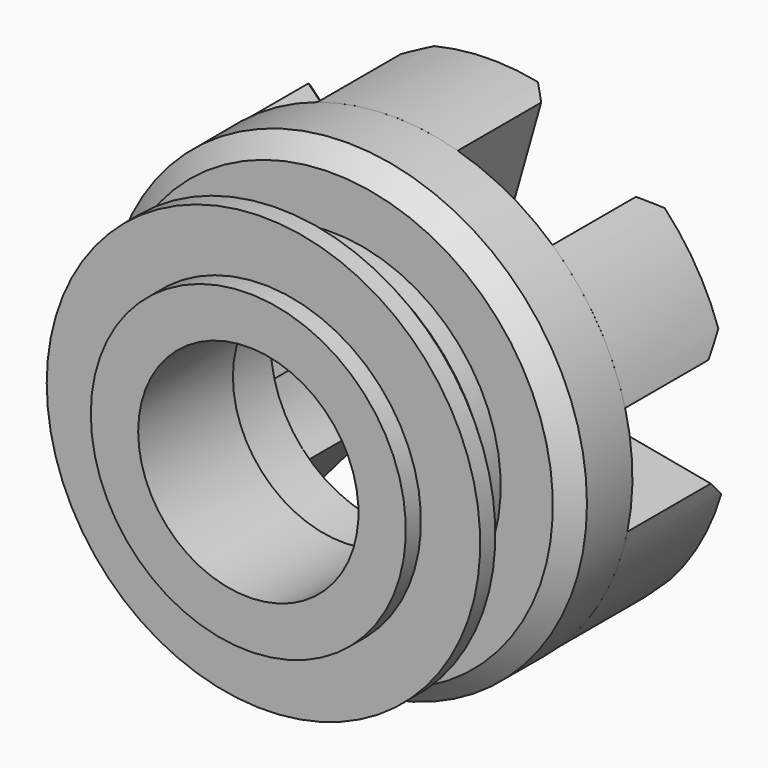
from build123d import *

# Parameters (mm, degrees)
PAD_DEPTH          = 13
CHAMFER_SIZE       = 2
POLARPATTERN_COUNT = 6
CHAMFER001_SIZE    = 2
CHAMFER002_SIZE    = 2


with BuildPart() as part:
    # Sketch → Revolution (revolve)
    with BuildSketch(Plane.XY):
        Polygon((-11.623481, 80.619493), (-16.623481, 80.619493), (-16.623481, 82.619493), (-22.873481, 82.619493), (-22.873481, 86.619493), (-17.837431, 86.619493), (-17.837431, 91.619493), (-25.337431, 91.619493), (-25.337431, 99.619493), (-12.837431, 99.619493), (-12.837431, 93.119493), (-11.623481, 93.119493), align=None)
    revolve(axis=Axis((0, 0, 0), (0, 1, 0)))

    # Sketch002 (on Face9 of Revolution) → Pad (new body)
    with BuildSketch(Plane(origin=(0, 99.619493, 0), x_dir=(-1, 0, 0), z_dir=(0, 1, 0))):
        with BuildLine():
            Line((3.768044, 12.382216), (7.894003, 24.07634))
            ThreePointArc((7.894003, 24.07634), (0.517974, 25.334484), (-6.903315, 24.378877))
            Line((-3.51886, 12.454993), (-6.903315, 24.378877))
            ThreePointArc((3.768044, 12.382216), (0.129841, 12.944225), (-3.51886, 12.454993))
        make_face()
    pad = extrude(amount=PAD_DEPTH)

    # Chamfer
    chamfer_edges = [part.edges().sort_by_distance(p)[0] for p in [
        (-5.831023, 112.619493, 18.229278),
        (5.211088, 112.619493, 18.416935),
    ]]
    chamfer(chamfer_edges, length=CHAMFER_SIZE)

    # PolarPattern: Pad ×6 about axis
    polarpattern_axis = Axis((0, 99.619493, 0), (0, 1, 0))
    for i in range(1, POLARPATTERN_COUNT):
        add(pad.rotate(polarpattern_axis, i * 360 / POLARPATTERN_COUNT))

    # Chamfer001
    chamfer001_edges = [part.edges().sort_by_distance(p)[0] for p in [
        (18.555078, 112.619493, 4.695533),
        (12.871506, 112.619493, 14.164453),
        (18.702529, 112.619493, -4.064825),
        (13.34399, 112.619493, -13.721402),
        (5.831023, 112.619493, -18.229278),
        (-5.211088, 112.619493, -18.416935),
        (-12.871506, 112.619493, -14.164453),
        (-18.555078, 112.619493, -4.695533),
        (-18.702529, 112.619493, 4.064825),
        (-13.34399, 112.619493, 13.721402),
    ]]
    chamfer(chamfer001_edges, length=CHAMFER001_SIZE)

    # Chamfer002
    chamfer002_edges = [part.edges().sort_by_distance(p)[0] for p in [
        (25.337431, 91.619493, 0),
        (22.873481, 86.619493, 0),
    ]]
    chamfer(chamfer002_edges, length=CHAMFER002_SIZE)


solid = part.part
